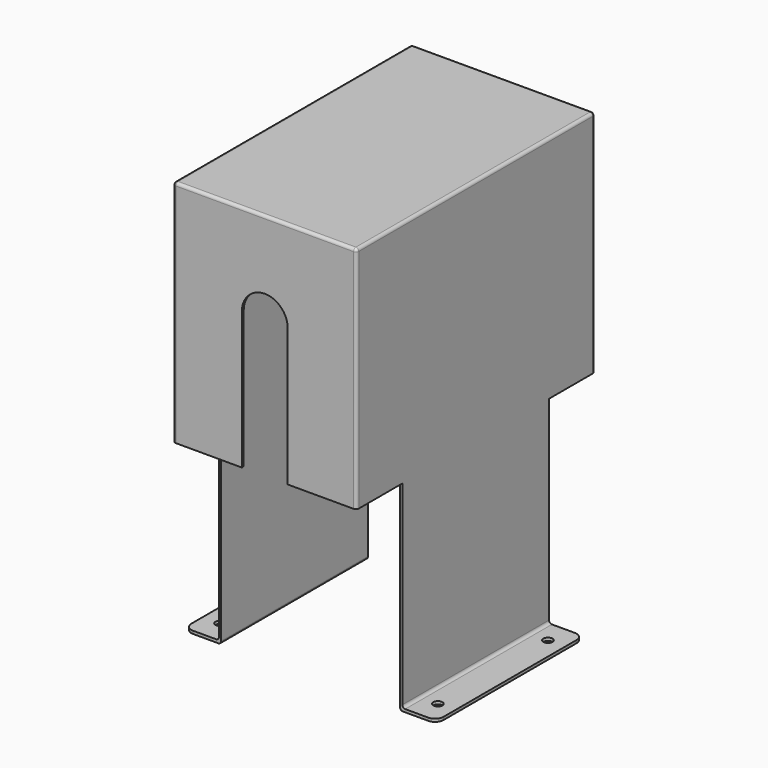
from build123d import *

# Parameters (mm, degrees)
F0_W      = 203.2
F0_H      = 330.2
F1_DEPTH  = 254
F2_T      = -2.54
F4_DEPTH  = 25.4
F6_DEPTH  = 25.4
F8_DEPTH  = 222.25
F10_DEPTH = 222.25
F11_W     = 203.2
F11_H     = 3.175
F12_DEPTH = 38.1
F13_W     = 203.2
F13_H     = 3.175
F14_DEPTH = 38.1
F15_R     = 5.08
F16_DEPTH = 25.4
F17_R     = 3.175
F18_R     = 9.525


with BuildPart() as f1:
    # F0 (on Top) → F1 (new body)
    with BuildSketch(Plane.XY):
        Rectangle(F0_W, F0_H)
    extrude(amount=F1_DEPTH)

    # F2
    f2_openings = [f1.faces().sort_by_distance(p)[0] for p in [
        (0, 0, 0),
    ]]
    offset(amount=F2_T, openings=f2_openings)

    # F3 (on face) → F4 (cut)
    with BuildSketch(Plane.XZ.offset(165.1)):
        with BuildLine():
            Line((-25.4, 0), (0, 0))
            Line((0, 0), (0, 127))
            ThreePointArc((0, 127), (-17.9605122421, 134.4394877579), (-25.4, 152.4))
            Line((-25.4, 152.4), (-25.4, 0))
        make_face()
        with BuildLine():
            Line((0, 127), (0, 0))
            Line((0, 0), (25.4, 0))
            Line((25.4, 0), (25.4, 152.4))
            ThreePointArc((25.4, 152.4), (17.9605122421, 134.4394877579), (0, 127))
        make_face()
        with BuildLine():
            ThreePointArc((-25.4, 152.4), (-17.9605122421, 134.4394877579), (0, 127))
            Line((0, 127), (0, 152.4))
            Line((0, 152.4), (-25.4, 152.4))
        make_face()
        with BuildLine():
            Line((0, 152.4), (0, 127))
            ThreePointArc((0, 127), (17.9605122421, 134.4394877579), (25.4, 152.4))
            Line((25.4, 152.4), (0, 152.4))
        make_face()
        with BuildLine():
            Line((-25.4, 152.4), (0, 152.4))
            Line((0, 152.4), (25.4, 152.4))
            ThreePointArc((25.4, 152.4), (0, 177.8), (-25.4, 152.4))
        make_face()
    extrude(amount=-F4_DEPTH, mode=Mode.SUBTRACT)

    # F5 (on face) → F6 (cut)
    with BuildSketch(Plane(origin=(0, 165.1, 0), x_dir=(-1, 0, 0), z_dir=(0, 1, 0))):
        with BuildLine():
            Line((-38.1, 0), (0, 0))
            Line((0, 0), (0, 114.3))
            ThreePointArc((0, 114.3), (-26.9407683632, 125.4592316368), (-38.1, 152.4))
            Line((-38.1, 152.4), (-38.1, 0))
        make_face()
        with BuildLine():
            Line((0, 114.3), (0, 0))
            Line((0, 0), (38.1, 0))
            Line((38.1, 0), (38.1, 152.4))
            ThreePointArc((38.1, 152.4), (26.9407683632, 125.4592316368), (0, 114.3))
        make_face()
        with BuildLine():
            ThreePointArc((-38.1, 152.4), (-26.9407683632, 125.4592316368), (0, 114.3))
            Line((0, 114.3), (0, 152.4))
            Line((0, 152.4), (-38.1, 152.4))
        make_face()
        with BuildLine():
            Line((0, 152.4), (0, 114.3))
            ThreePointArc((0, 114.3), (26.9407683632, 125.4592316368), (38.1, 152.4))
            Line((38.1, 152.4), (0, 152.4))
        make_face()
        with BuildLine():
            Line((-38.1, 152.4), (0, 152.4))
            Line((0, 152.4), (38.1, 152.4))
            ThreePointArc((38.1, 152.4), (0, 190.5), (-38.1, 152.4))
        make_face()
    extrude(amount=-F6_DEPTH, mode=Mode.SUBTRACT)

    # F7 (on face) → F8 (join)
    with BuildSketch(Plane(origin=(0, 0, 0), x_dir=(1, 0, 0), z_dir=(0, 0, -1))):
        Polygon((99.06, 101.6), (99.06, 0), (99.06, -101.6), (101.6, -101.6), (101.6, 101.6), align=None)
    extrude(amount=F8_DEPTH)

    # F9 (on face) → F10 (join)
    with BuildSketch(Plane(origin=(0, 0, 0), x_dir=(1, 0, 0), z_dir=(0, 0, -1))):
        Polygon((-99.06, -101.6), (-99.06, 0), (-99.06, 101.6), (-101.6, 101.6), (-101.6, -101.6), align=None)
    extrude(amount=F10_DEPTH)

    # F11 (on face) → F12 (join)
    with BuildSketch(Plane.YZ.offset(101.6)):
        with Locations((0, -220.6625)):
            Rectangle(F11_W, F11_H)
    extrude(amount=F12_DEPTH)

    # F13 (on face) → F14 (join)
    with BuildSketch(Plane(origin=(-101.6, 0, 0), x_dir=(0, -1, 0), z_dir=(-1, 0, 0))):
        with Locations((0, -220.6625)):
            Rectangle(F13_W, F13_H)
    extrude(amount=F14_DEPTH)

    # F15 (on face) → F16 (cut)
    with BuildSketch(Plane(origin=(0, 0, -222.25), x_dir=(1, 0, 0), z_dir=(0, 0, -1))):
        with Locations((120.65, 76.2)):
            Circle(F15_R)
        with Locations((120.65, -76.2)):
            Circle(F15_R)
        with Locations((-120.65, 76.2)):
            Circle(F15_R)
        with Locations((-120.65, -76.2)):
            Circle(F15_R)
    extrude(amount=-F16_DEPTH, mode=Mode.SUBTRACT)

    # F17
    f17_edges = [f1.edges().sort_by_distance(p)[0] for p in [
        (101.6, 0, -219.075),
        (99.06, 0, -222.25),
        (-99.06, 0, -222.25),
        (-101.6, 0, -219.075),
        (-101.6, -165.1, 127),
        (0, -165.1, 254),
        (101.6, -165.1, 127),
        (-101.6, 165.1, 127),
        (0, 165.1, 254),
        (101.6, 165.1, 127),
        (-101.6, 0, 254),
        (101.6, 0, 254),
    ]]
    fillet(f17_edges, radius=F17_R)

    # F18
    f18_edges = [f1.edges().sort_by_distance(p)[0] for p in [
        (-139.7, 101.6, -220.6625),
        (-139.7, -101.6, -220.6625),
        (139.7, -101.6, -220.6625),
        (139.7, 101.6, -220.6625),
    ]]
    fillet(f18_edges, radius=F18_R)


solid = f1.part
